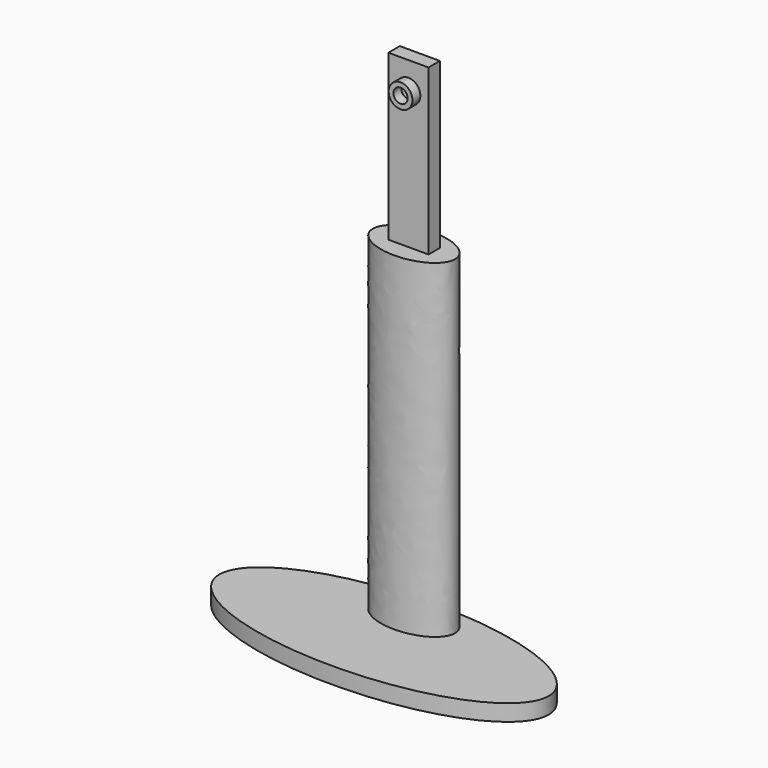
from build123d import *

# Parameters (mm, degrees)
F1_DEPTH = 5
F4_DEPTH = 100
F5_W     = 12.1789
F5_H     = 4.334862
F6_DEPTH = 50
F8_R     = 3.612284
F8_R_2   = 2.168311
F9_DEPTH = 3


with BuildPart() as f1:
    # F0 (on Top) → F1 (new body)
    with BuildSketch(Plane.XY):
        with BuildLine():
            add(Edge.make_bspline(
                [(50, 0), (50, 34.641016), (-25, 17.320508), (-100, 0), (-25, -17.320508), (50, -34.641016), (50, 0)],
                knots=[0, 0, 0, 2.094395, 2.094395, 4.18879, 4.18879, 6.283185, 6.283185, 6.283185], degree=2, weights=[1, 0.5, 1, 0.5, 1, 0.5, 1]))
        make_face()
    extrude(amount=F1_DEPTH)

    # F3 (on face) → F4 (join)
    with BuildSketch(Plane.XY.offset(5)):
        with BuildLine():
            add(Edge.make_bspline(
                [(12.5, 11.353212), (12.5, 24.343593), (-6.25, 17.848403), (-25, 11.353212), (-6.25, 4.858022), (12.5, -1.637169), (12.5, 11.353212)],
                knots=[0, 0, 0, 2.094395, 2.094395, 4.18879, 4.18879, 6.283185, 6.283185, 6.283185], degree=2, weights=[1, 0.5, 1, 0.5, 1, 0.5, 1]))
        make_face()
    extrude(amount=F4_DEPTH)

    # F5 (on face) → F6 (join)
    with BuildSketch(Plane.XY.offset(105)):
        with Locations((0, 11.456422)):
            Rectangle(F5_W, F5_H)
    extrude(amount=F6_DEPTH)


with BuildPart() as f9:
    # F8 (on face) → F9 (new body)
    with BuildSketch(Plane.XZ.offset(-9.288991)):
        with Locations((0, 146.665141)):
            Circle(F8_R)
        with Locations((0, 146.685615)):
            Circle(F8_R_2, mode=Mode.SUBTRACT)
    extrude(amount=F9_DEPTH)


solid = Compound([f1.part, f9.part])
